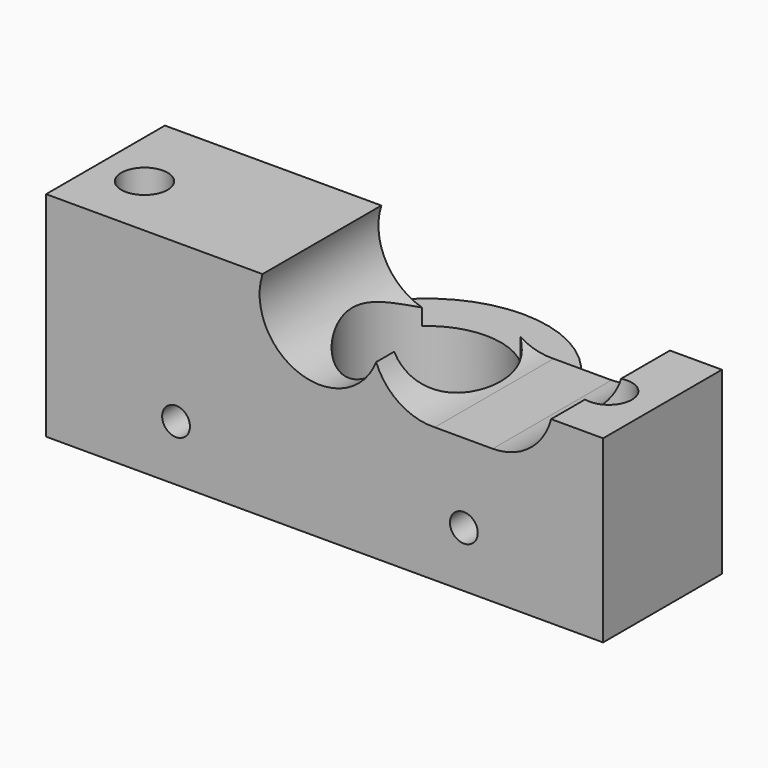
from build123d import *

# Parameters (mm, degrees)
F0_R     = 2.5
F0_R_2   = 8
F1_DEPTH = 23
F2_R     = 1.5
F3_DEPTH = 23.001
F4_W     = 8
F4_H     = 10
F5_DEPTH = 60.001


with BuildPart() as f1:
    # F0 (on Top) → F1 (new body)
    with BuildSketch(Plane.XY):
        with BuildLine():
            Line((-11.5325625947, 6), (-33, 6))
            Line((-33, 6), (-33, -10))
            Line((-33, -10), (27, -10))
            Line((27, -10), (27, 6))
            Line((27, 6), (11.5325625947, 6))
            ThreePointArc((11.5325625947, 6), (0, 13), (-11.5325625947, 6))
        make_face()
        with Locations((-28, -3)):
            Circle(F0_R, mode=Mode.SUBTRACT)
        Circle(F0_R_2, mode=Mode.SUBTRACT)
        with Locations((22, -3)):
            Circle(F0_R, mode=Mode.SUBTRACT)
    extrude(amount=F1_DEPTH)

    # F2 (on face) → F3 (cut, through all)
    with BuildSketch(Plane.XZ.offset(10)):
        with Locations((-19, 6)):
            Circle(F2_R)
        with Locations((12, 6)):
            Circle(F2_R)
        with BuildLine():
            ThreePointArc((2.555311013, 18.6371185947), (2.8878604237, 19.7978189788), (3, 21))
            ThreePointArc((3, 21), (2.8878604237, 22.2021810212), (2.555311013, 23.3628814053))
            ThreePointArc((2.555311013, 23.3628814053), (2.110622026, 21), (2.555311013, 18.6371185947))
        make_face()
        with BuildLine():
            ThreePointArc((2.555311013, 23.3628814053), (2.8878604237, 22.2021810212), (3, 21))
            ThreePointArc((3, 21), (2.8878604237, 19.7978189788), (2.555311013, 18.6371185947))
            ThreePointArc((2.555311013, 18.6371185947), (5.0491141915, 15.5625684423), (8.8639976231, 14.5049402769))
            ThreePointArc((8.8639976231, 14.5049402769), (10.4150204043, 14.7554706749), (11.860622026, 15.3708348754))
            ThreePointArc((11.860622026, 15.3708348754), (8.610622026, 21), (11.860622026, 26.6291651246))
            ThreePointArc((11.860622026, 26.6291651246), (6.4578111185, 27.1331399133), (2.555311013, 23.3628814053))
        make_face()
        with BuildLine():
            ThreePointArc((2.555311013, 18.6371185947), (2.110622026, 21), (2.555311013, 23.3628814053))
            ThreePointArc((2.555311013, 23.3628814053), (-10, 21), (2.555311013, 18.6371185947))
        make_face()
        with BuildLine():
            ThreePointArc((21.2952804645, 23), (17.4442382997, 27.0666494119), (11.860622026, 26.6291651246))
            ThreePointArc((11.860622026, 26.6291651246), (14.2397871506, 24.25), (15.110622026, 21))
            ThreePointArc((15.110622026, 21), (14.2397871506, 17.75), (11.860622026, 15.3708348754))
            ThreePointArc((11.860622026, 15.3708348754), (13.4258145924, 14.7221481451), (15.1054792462, 14.5000020345))
            ThreePointArc((15.1054792462, 14.5000020345), (19.0827263462, 15.854867614), (21.4002303392, 19.3596258759))
            ThreePointArc((21.4002303392, 19.3596258759), (21.5578095538, 20.173094333), (21.610622026, 21))
            ThreePointArc((21.610622026, 21), (21.5313026695, 22.0123537302), (21.2952804645, 23))
        make_face()
        with BuildLine():
            ThreePointArc((15.110622026, 21), (14.2397871506, 24.25), (11.860622026, 26.6291651246))
            ThreePointArc((11.860622026, 26.6291651246), (8.610622026, 21), (11.860622026, 15.3708348754))
            ThreePointArc((11.860622026, 15.3708348754), (14.2397871506, 17.75), (15.110622026, 21))
        make_face()
        with BuildLine():
            ThreePointArc((11.860622026, 15.3708348754), (10.4150204043, 14.7554706749), (8.8639976231, 14.5049402769))
            Line((8.8639976231, 14.5049402769), (15.1054792462, 14.5000020345))
            ThreePointArc((15.1054792462, 14.5000020345), (13.4258145924, 14.7221481451), (11.860622026, 15.3708348754))
        make_face()
        with BuildLine():
            Line((27, 23), (21.2952804645, 23))
            ThreePointArc((21.2952804645, 23), (21.5313026695, 22.0123537302), (21.610622026, 21))
            ThreePointArc((21.610622026, 21), (21.5578095538, 20.173094333), (21.4002303392, 19.3596258759))
            Line((21.4002303392, 19.3596258759), (27, 19.3596258759))
            Line((27, 19.3596258759), (27, 23))
        make_face()
    extrude(amount=-F3_DEPTH, mode=Mode.SUBTRACT)

    # F4 (on face) → F5 (cut, through all)
    with BuildSketch(Plane(origin=(-33, 0, 0), x_dir=(0, -1, 0), z_dir=(-1, 0, 0))):
        with Locations((-10, 18)):
            Rectangle(F4_W, F4_H)
    extrude(amount=-F5_DEPTH, mode=Mode.SUBTRACT)


solid = f1.part
